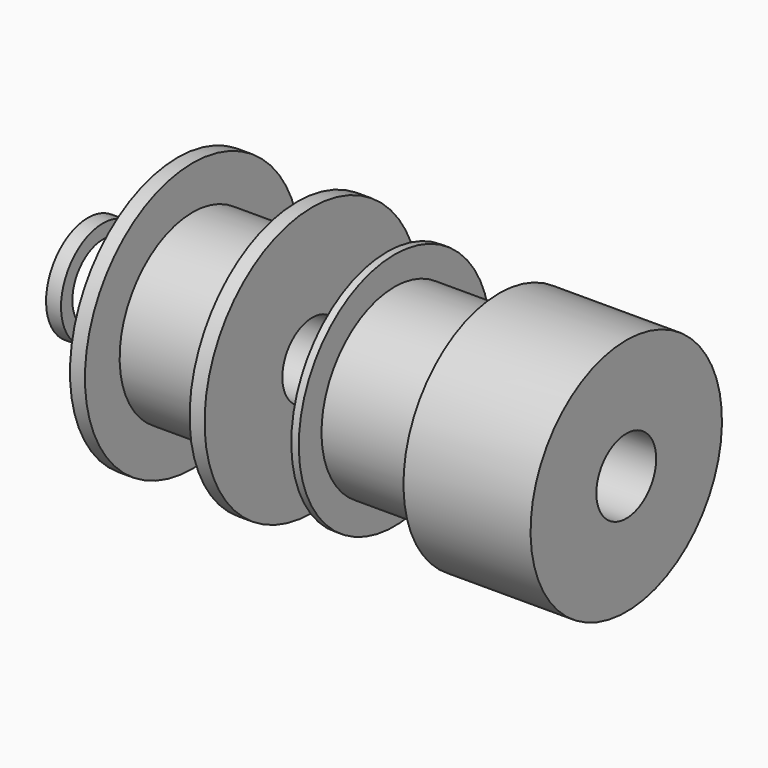
from build123d import *

# Parameters (mm, degrees)
F0_W = 1
F0_H = 0.95


with BuildPart() as f1:
    # F0 (on Front) → F1 (revolve)
    with BuildSketch(Plane.XZ):
        Polygon((0, 8), (0, 2.5), (16, 2.5), (16, 8), (7.5, 8), (7.5, 6.1), (0.5, 6.1), (0.5, 8), align=None)
    revolve(axis=Axis((8, 0, 0), (1, 0, 0)))


with BuildPart() as f2:
    # F0 (on Front) → F2 (revolve)
    with BuildSketch(Plane.XZ):
        Polygon((-13, 9), (-14, 9), (-14, 2.5), (-5, 2.5), (-5, 9), (-6, 9), (-6, 6.1), (-13, 6.1), align=None)
    revolve(axis=Axis((8, 0, 0), (1, 0, 0)))


with BuildPart() as f3:
    # F0 (on Front) → F3 (revolve)
    with BuildSketch(Plane.XZ):
        with Locations((-19.5, 3.025)):
            Rectangle(F0_W, F0_H)
    revolve(axis=Axis((8, 0, 0), (1, 0, 0)))


solid = Compound([f1.part, f2.part, f3.part])
